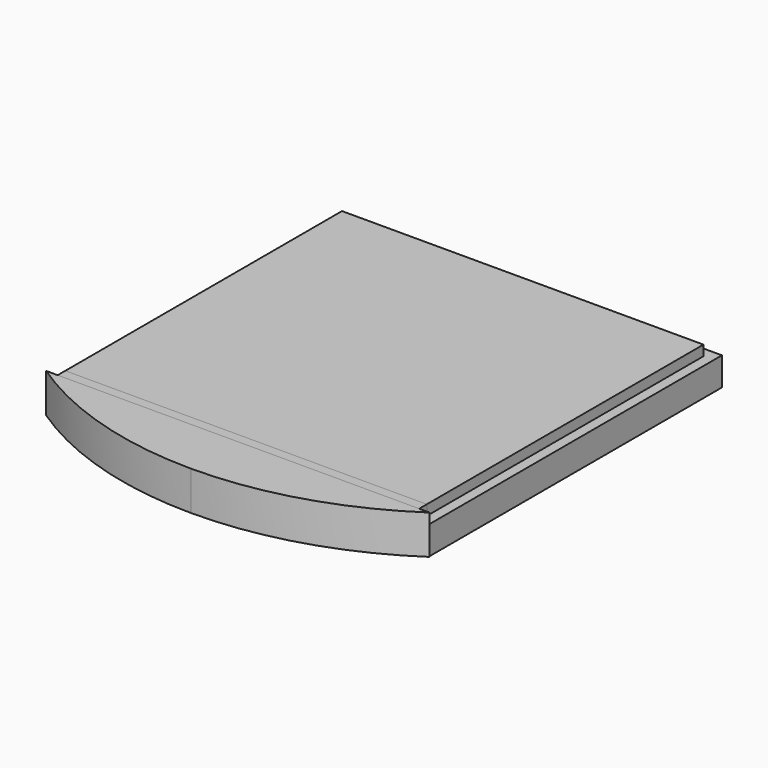
from build123d import *

# Parameters (mm, degrees)
F1_DEPTH = 7.9
F2_W     = 78.2
F2_H     = 75
F2_W_2   = 74
F2_H_2   = 70.8
F3_DEPTH = 2.1
F4_W     = 74
F4_H     = 2.1
F5_DEPTH = 2.1
F7_DEPTH = 8


with BuildPart() as f1:
    # F0 (on Top) → F1 (new body)
    with BuildSketch(Plane.XY):
        Polygon((-39.1, 0), (0, 0), (39.1, 0), (39.1, 75), (0, 75), (-39.1, 75), align=None)
    extrude(amount=F1_DEPTH)

    # F2 (on face) → F3 (cut)
    with BuildSketch(Plane.XY.offset(7.9)):
        with Locations((0, 37.5)):
            Rectangle(F2_W, F2_H)
        with Locations((0, 37.5)):
            Rectangle(F2_W_2, F2_H_2, mode=Mode.SUBTRACT)
    extrude(amount=-F3_DEPTH, mode=Mode.SUBTRACT)


with BuildPart() as f5:
    # F4 (on face) → F5 (new body)
    with BuildSketch(Plane.XY.offset(7.9)):
        with Locations((0, 1.05)):
            Rectangle(F4_W, F4_H)
    extrude(amount=-F5_DEPTH)


with BuildPart() as f7:
    # F6 (on Top) → F7 (new body)
    with BuildSketch(Plane.XY):
        with BuildLine():
            Line((39.253592, 0), (0, 0))
            Line((0, 0), (0, -11.95946))
            ThreePointArc((0, -11.95946), (20.517408, -8.902913), (39.253592, 0))
        make_face()
        with BuildLine():
            Line((0, -11.95946), (0, 0))
            Line((0, 0), (-39.258406, 0))
            ThreePointArc((-39.258406, 0), (-20.519919, -8.903615), (0, -11.95946))
        make_face()
    extrude(amount=F7_DEPTH)


solid = Compound([f1.part, f5.part, f7.part])
